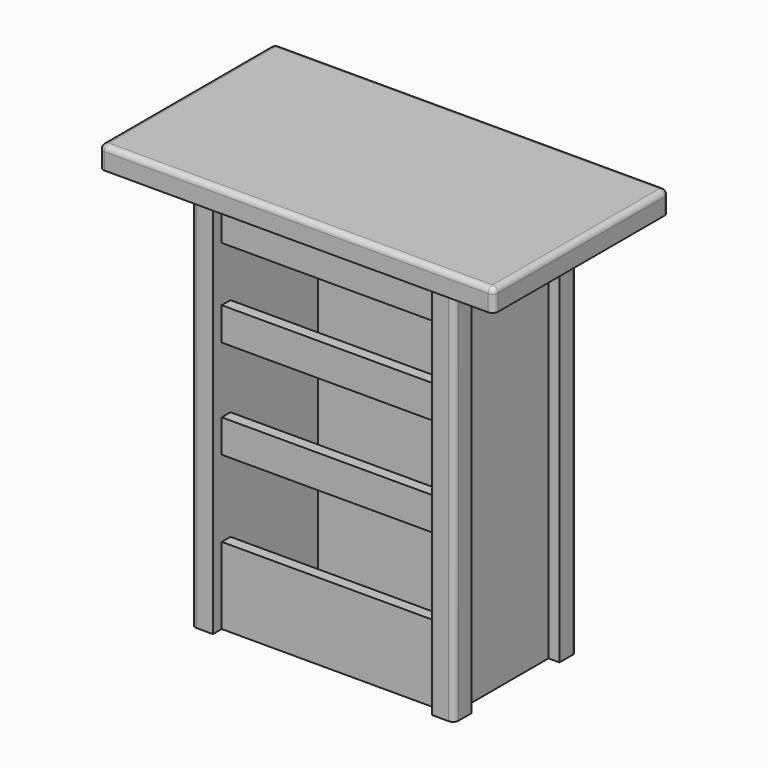
from build123d import *

# Parameters (mm, degrees)
F0_W     = 25.4
F0_H     = 254
F0_W_2   = 508
F0_H_2   = 25.4
F1_DEPTH = 914.4
F2_W     = 914.4
F2_H     = 508
F3_DEPTH = 50.8
F4_W     = 508
F4_H     = 127
F4_H_2   = 152.4
F4_H_3   = 177.8
F5_DEPTH = 127
F6_R     = 12.7


with BuildPart() as f1:
    # F0 (on Top) → F1 (new body)
    with BuildSketch(Plane.XY):
        Polygon((-279.4, 127), (-254, 127), (-254, 152.4), (-254, 177.8), (-304.8, 177.8), (-304.8, 127), align=None)
        Polygon((-254, -177.8), (-254, -152.4), (-254, -127), (-279.4, -127), (-304.8, -127), (-304.8, -177.8), align=None)
        Polygon((254, -152.4), (254, -177.8), (304.8, -177.8), (304.8, -127), (279.4, -127), (254, -127), align=None)
        Polygon((254, 152.4), (254, 127), (279.4, 127), (304.8, 127), (304.8, 177.8), (254, 177.8), align=None)
        with Locations((-266.7, 0)):
            Rectangle(F0_W, F0_H)
        with Locations((0, 139.7)):
            Rectangle(F0_W_2, F0_H_2)
        with Locations((266.7, 0)):
            Rectangle(F0_W, F0_H)
        with Locations((0, -139.7)):
            Rectangle(F0_W_2, F0_H_2)
    extrude(amount=F1_DEPTH)

    # F2 (on face) → F3 (join)
    with BuildSketch(Plane.XY.offset(914.4)):
        Rectangle(F2_W, F2_H)
    extrude(amount=F3_DEPTH)

    # F4 (on face) → F5 (cut)
    with BuildSketch(Plane.XZ.offset(152.4)):
        with Locations((0, 723.9)):
            Rectangle(F4_W, F4_H)
        with Locations((0, 508)):
            Rectangle(F4_W, F4_H_2)
        with Locations((0, 266.7)):
            Rectangle(F4_W, F4_H_3)
    extrude(amount=-F5_DEPTH, mode=Mode.SUBTRACT)

    # F6
    f6_edges = [f1.edges().sort_by_distance(p)[0] for p in [
        (457.2, 0, 965.2),
        (0, -254, 965.2),
        (-457.2, 0, 965.2),
        (0, 254, 965.2),
        (457.2, -254, 939.8),
        (-457.2, -254, 939.8),
        (457.2, 254, 939.8),
        (-457.2, 254, 939.8),
        (304.8, -177.8, 457.2),
        (-304.8, -177.8, 457.2),
        (304.8, 177.8, 457.2),
        (-304.8, 177.8, 457.2),
    ]]
    fillet(f6_edges, radius=F6_R)


solid = f1.part
